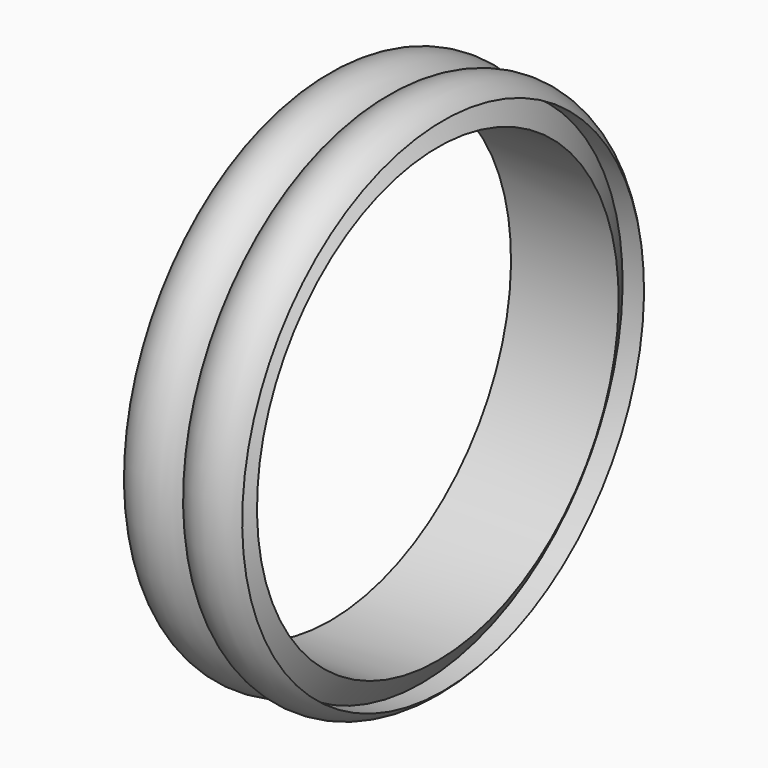
from build123d import *


with BuildPart() as f1:
    # F0 (on Front) → F1 (revolve)
    with BuildSketch(Plane.XZ):
        with BuildLine():
            Line((-31.5, -70), (-37.473933, -70))
            ThreePointArc((-37.473933, -70), (-29.236966, -73.870477), (-21, -70))
            ThreePointArc((-21, -70), (-12.763034, -73.870477), (-4.526067, -70))
            Line((-4.526067, -70), (-10.5, -70))
            Line((-10.5, -70), (-6, -63))
            Line((-6, -63), (-36, -63))
            Line((-36, -63), (-31.5, -70))
        make_face()
    revolve(axis=Axis((-21, 0, 0), (-1, 0, 0)))


solid = f1.part
